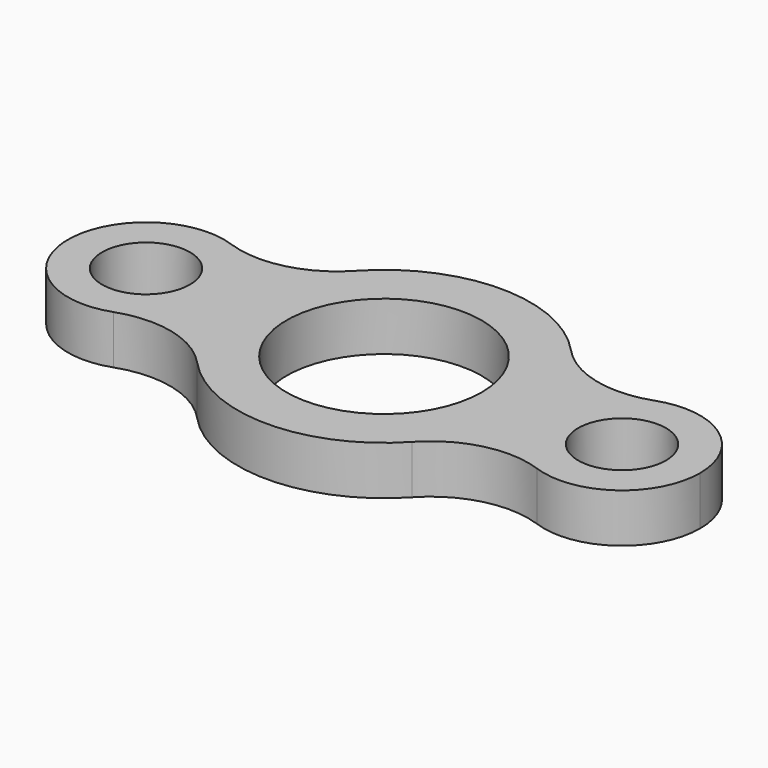
from build123d import *

# Parameters (mm, degrees)
F0_R     = 50
F0_R_2   = 22.5
F1_DEPTH = 25


with BuildPart() as f1:
    # F0 (on Top) → F1 (new body)
    with BuildSketch(Plane.XY):
        with BuildLine():
            ThreePointArc((55.104098, -50.87768), (69.84915, -27.314764), (75, 0))
            ThreePointArc((75, 0), (69.84915, 27.314764), (55.104098, 50.87768))
            ThreePointArc((55.104098, 50.87768), (0, 75), (-55.104098, 50.87768))
            ThreePointArc((-55.104098, 50.87768), (-75, 0), (-55.104098, -50.87768))
            ThreePointArc((-55.104098, -50.87768), (0, -75), (55.104098, -50.87768))
        make_face()
        Circle(F0_R, mode=Mode.SUBTRACT)
        with BuildLine():
            ThreePointArc((55.104098, 50.87768), (69.84915, 27.314764), (75, 0))
            ThreePointArc((75, 0), (69.84915, -27.314764), (55.104098, -50.87768))
            ThreePointArc((55.104098, -50.87768), (79.86922, -36.250315), (108.595628, -37.687171))
            ThreePointArc((108.595628, -37.687171), (82, 0), (108.595628, 37.687171))
            ThreePointArc((108.595628, 37.687171), (79.86922, 36.250315), (55.104098, 50.87768))
        make_face()
        with BuildLine():
            ThreePointArc((162, 0), (145.06323, 32.681607), (108.595628, 37.687171))
            ThreePointArc((108.595628, 37.687171), (82, 0), (108.595628, -37.687171))
            ThreePointArc((108.595628, -37.687171), (145.06323, -32.681607), (162, 0))
        make_face()
        with Locations((122, 0)):
            Circle(F0_R_2, mode=Mode.SUBTRACT)
        with BuildLine():
            ThreePointArc((-55.104098, -50.87768), (-75, 0), (-55.104098, 50.87768))
            ThreePointArc((-55.104098, 50.87768), (-79.86922, 36.250315), (-108.595628, 37.687171))
            ThreePointArc((-108.595628, 37.687171), (-89.318393, 23.06323), (-82, 0))
            ThreePointArc((-82, 0), (-89.318393, -23.06323), (-108.595628, -37.687171))
            ThreePointArc((-108.595628, -37.687171), (-79.86922, -36.250315), (-55.104098, -50.87768))
        make_face()
        with BuildLine():
            ThreePointArc((-82, 0), (-89.318393, 23.06323), (-108.595628, 37.687171))
            ThreePointArc((-108.595628, 37.687171), (-162, 0), (-108.595628, -37.687171))
            ThreePointArc((-108.595628, -37.687171), (-89.318393, -23.06323), (-82, 0))
        make_face()
        with Locations((-122, 0)):
            Circle(F0_R_2, mode=Mode.SUBTRACT)
    extrude(amount=F1_DEPTH)


solid = f1.part
